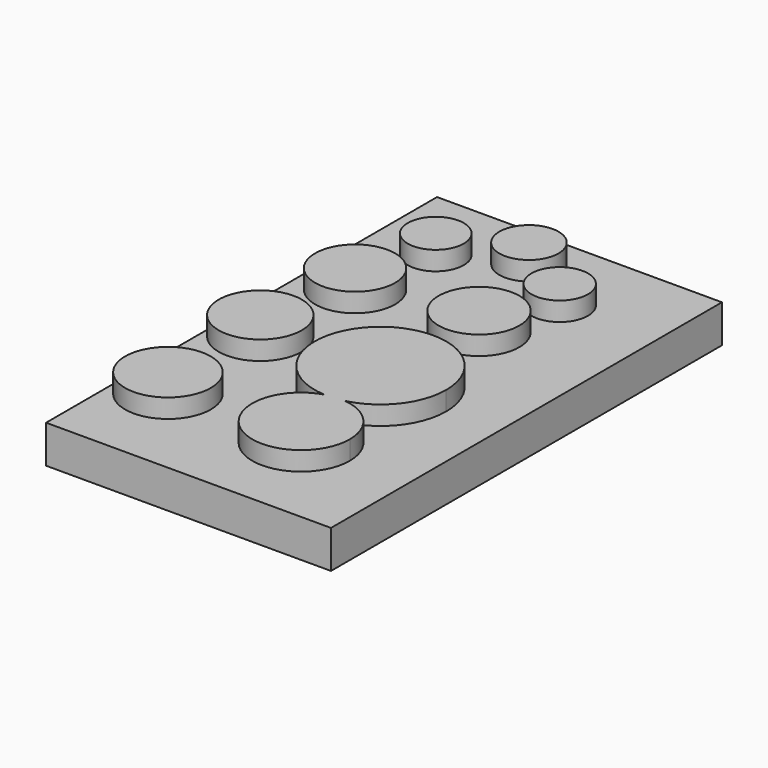
from build123d import *

# Parameters (mm, degrees)
F0_W     = 38.1929278374
F0_H     = 65.5134171247
F1_DEPTH = 5.08
F2_R     = 5.3624507345
F2_R_2   = 5.575607717
F2_R_3   = 5.7404414839
F2_R_4   = 5.4129387383
F2_R_5   = 3.7918226762
F2_R_6   = 3.7506057442
F2_R_7   = 3.9622118833
F3_DEPTH = 2.54


with BuildPart() as f1:
    # F0 (on Top) → F1 (new body)
    with BuildSketch(Plane.XY):
        with Locations((-34.84756127, 32.7567085624)):
            Rectangle(F0_W, F0_H)
    extrude(amount=F1_DEPTH)

    # F2 (on face) → F3 (join)
    with BuildSketch(Plane.XY.offset(5.08)):
        with Locations((-47.5320741534, 43.7685362995)):
            Circle(F2_R)
        with Locations((-48.6471951008, 29.2719528079)):
            Circle(F2_R_2)
        with Locations((-48.0896346271, 13.1026823074)):
            Circle(F2_R_3)
        with BuildLine():
            ThreePointArc((-32.1385894881, 19.3550383455), (-34.1410112771, 7.8577345363), (-23.715647457, 13.1026823074))
            ThreePointArc((-23.715647457, 13.1026823074), (-25.3840334776, 17.4630034739), (-29.536926722, 19.5959334514))
            ThreePointArc((-29.536926722, 19.5959334514), (-30.8287841368, 19.3785672051), (-32.1385894881, 19.3550383455))
        make_face()
        with BuildLine():
            ThreePointArc((-32.1385894881, 19.3550383455), (-30.8287841368, 19.3785672051), (-29.536926722, 19.5959334514))
            ThreePointArc((-29.536926722, 19.5959334514), (-30.8499256715, 19.6068953956), (-32.1385894881, 19.3550383455))
        make_face()
        with BuildLine():
            ThreePointArc((-32.1385894881, 19.3550383455), (-30.8499256715, 19.6068953956), (-29.536926722, 19.5959334514))
            ThreePointArc((-29.536926722, 19.5959334514), (-24.7035460102, 22.71788471), (-22.8257752784, 28.1568299979))
            ThreePointArc((-22.8257752784, 28.1568299979), (-37.6970426727, 34.5638582637), (-32.1385894881, 19.3550383455))
        make_face()
        with Locations((-31.3628055155, 44.3261004984)):
            Circle(F2_R_4)
        with Locations((-28.5749994218, 54.3621964753)):
            Circle(F2_R_5)
        with Locations((-45.8593890071, 55.1985353231)):
            Circle(F2_R_6)
        with Locations((-36.9384139776, 59.6590265632)):
            Circle(F2_R_7)
    extrude(amount=F3_DEPTH)


solid = f1.part
